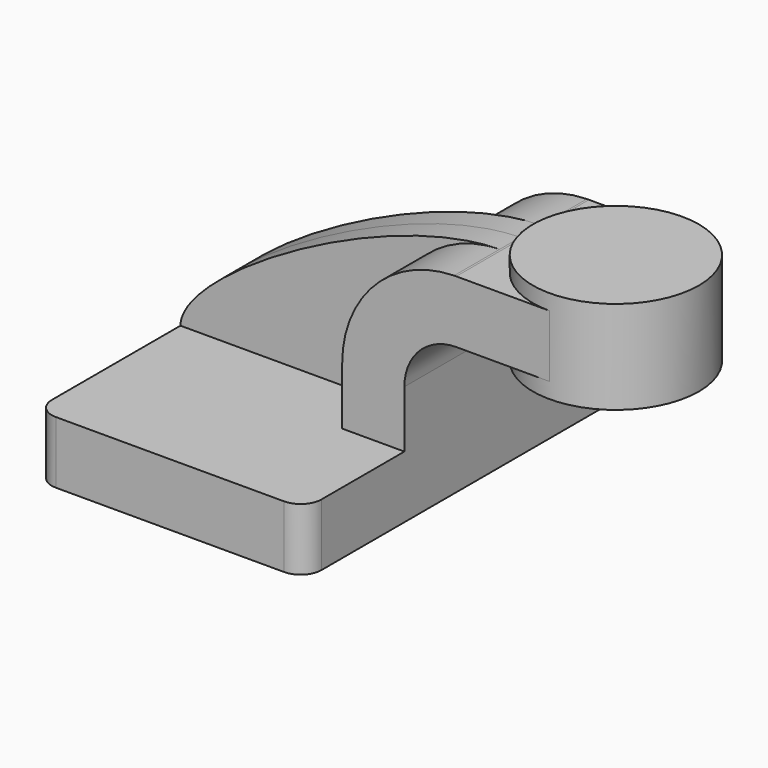
from build123d import *

# Parameters (mm, degrees)
F1_DEPTH = 63.5
F2_DEPTH = 25.4
F0_W     = 25.4
F0_H     = 19.05
F3_DEPTH = 25.4
F4_DEPTH = 7.9375
F6_R     = 6.35


with BuildPart() as f1:
    # F0 (on Front) → F1 (new body, symmetric)
    with BuildSketch(Plane.XZ):
        Polygon((22.225, 9.525), (-41.275, 9.525), (-41.275, -9.525), (41.275, -9.525), (41.275, 9.525), align=None)
    extrude(amount=F1_DEPTH, both=True)

    # F0 (on Front) → F2 (join, symmetric)
    with BuildSketch(Plane.XZ):
        with BuildLine():
            Line((22.225, 27.0002), (22.225, 9.525))
            Line((22.225, 9.525), (41.275, 9.525))
            Line((41.275, 9.525), (41.275, 27.0002))
            ThreePointArc((41.275, 27.0002), (45.9246798487, 38.2255201513), (57.15, 42.8752))
            Line((57.15, 42.8752), (60.325, 42.8752))
            Line((60.325, 42.8752), (60.325, 61.9252))
            Line((60.325, 61.9252), (57.15, 61.9252))
            add(Edge.make_bspline(
                [(56.5114887891, 61.9193627682), (56.7252668459, 61.9225827874), (56.9381101801, 61.9245325067), (57.15, 61.9252)],
                knots=[110.8414409639, 110.8414409639, 110.8414409639, 110.8414409639, 111.5045361635, 111.5045361635, 111.5045361635, 111.5045361635], degree=3))
            ThreePointArc((56.5114887891, 61.9193627682), (32.2295703384, 51.469115188), (22.225, 27.0002))
        make_face()
    extrude(amount=F2_DEPTH, both=True)

    # F0 (on Front) → F3 (join, symmetric)
    with BuildSketch(Plane.XZ):
        with Locations((73.025, 52.4002)):
            Rectangle(F0_W, F0_H)
    extrude(amount=F3_DEPTH, both=True)

    # F0 (on Front) → F4 (join, symmetric)
    with BuildSketch(Plane.XZ):
        with BuildLine():
            add(Edge.make_bspline(
                [(-41.275, 9.525), (-41.0755103707, 25.3485469245), (20.7768493641, 61.3811119099), (56.5114887891, 61.9193627682)],
                knots=[0, 0, 0, 0, 110.8414409639, 110.8414409639, 110.8414409639, 110.8414409639], degree=3))
            Line((-41.275, 9.525), (22.225, 9.525))
            Line((22.225, 9.525), (22.225, 27.0002))
            ThreePointArc((22.225, 27.0002), (32.2295703384, 51.469115188), (56.5114887891, 61.9193627682))
        make_face()
    extrude(amount=F4_DEPTH, both=True)

    # F0 (on Front) → F5 (revolve)
    with BuildSketch(Plane.XZ):
        Polygon((85.725, 66.675), (85.725, 61.9252), (85.725, 42.8752), (85.725, 38.1), (111.125, 38.1), (111.125, 66.675), align=None)
    revolve(axis=Axis((85.725, 0, 52.3875), (0, 0, 1)))

    # F6
    f6_edges = [f1.edges().sort_by_distance(p)[0] for p in [
        (-41.275, -63.5, 0),
        (41.275, -63.5, 0),
        (41.275, 63.5, 0),
        (-41.275, 63.5, 0),
    ]]
    fillet(f6_edges, radius=F6_R)


solid = f1.part
